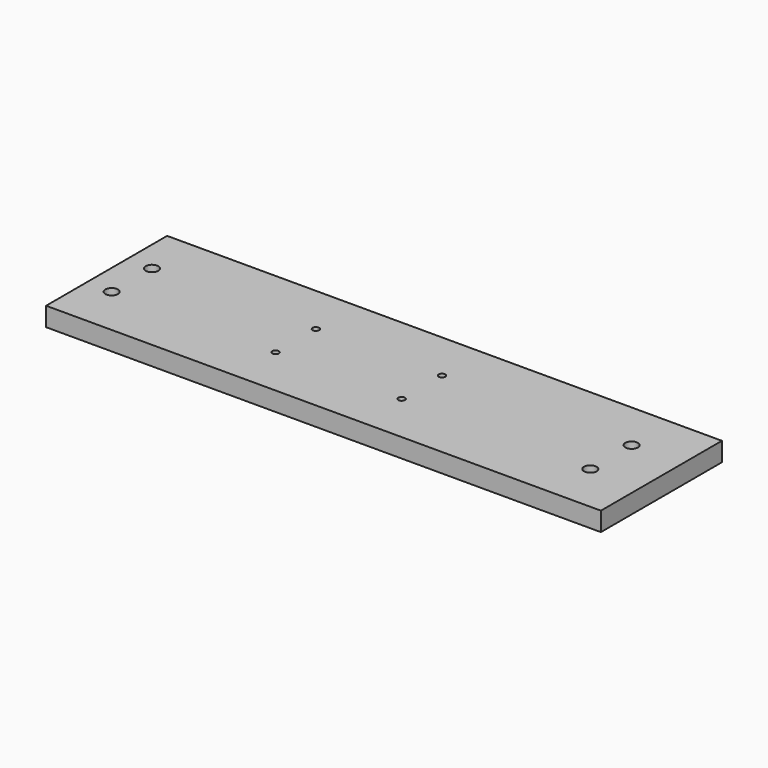
from build123d import *

# Parameters (mm, degrees)
F0_W     = 30
F0_H     = 3.75
F1_DEPTH = 55
F2_R     = 1.25
F3_DEPTH = 3.751
F4_R     = 0.65
F5_DEPTH = 3.751


with BuildPart() as f1:
    # F0 (on Right) → F1 (new body, symmetric)
    with BuildSketch(Plane.YZ):
        Rectangle(F0_W, F0_H)
    extrude(amount=F1_DEPTH, both=True)

    # F2 (on face) → F3 (cut, through all)
    with BuildSketch(Plane.XY.offset(1.875)):
        with Locations((-50, 5)):
            Circle(F2_R)
        with Locations((45, -5.12)):
            Circle(F2_R)
        with Locations((45, 5.12)):
            Circle(F2_R)
        with Locations((-50, -5)):
            Circle(F2_R)
    extrude(amount=-F3_DEPTH, mode=Mode.SUBTRACT)

    # F4 (on face) → F5 (cut, through all)
    with BuildSketch(Plane.XY.offset(1.875)):
        with Locations((-17.5, 5)):
            Circle(F4_R)
        with Locations((-17.5, -5)):
            Circle(F4_R)
        with Locations((7.5, 5)):
            Circle(F4_R)
        with Locations((7.5, -5)):
            Circle(F4_R)
    extrude(amount=-F5_DEPTH, mode=Mode.SUBTRACT)


solid = f1.part
